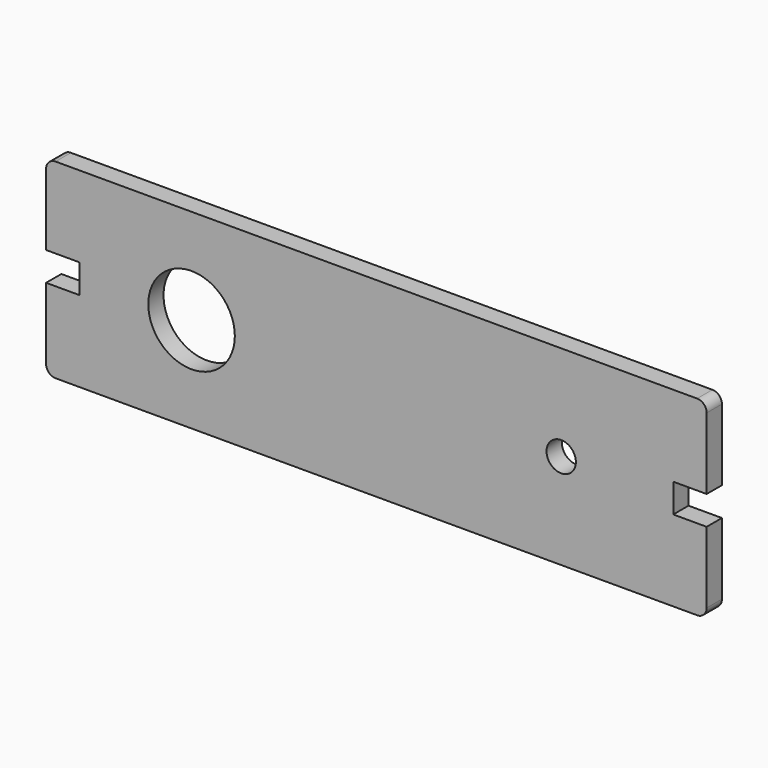
from build123d import *

# Parameters (mm, degrees)
F0_W     = 138.5
F0_H     = 40
F0_R     = 9.075
F0_R_2   = 3.075
F1_DEPTH = 4
F2_R     = 2
F3_W     = 7
F3_H     = 6.05
F4_DEPTH = 25


with BuildPart() as f1:
    # F0 (on Front) → F1 (new body)
    with BuildSketch(Plane.XZ):
        Rectangle(F0_W, F0_H)
        with Locations((-38.75, 0)):
            Circle(F0_R, mode=Mode.SUBTRACT)
        with Locations((38.75, 0)):
            Circle(F0_R_2, mode=Mode.SUBTRACT)
    extrude(amount=F1_DEPTH)

    # F2
    f2_edges = [f1.edges().sort_by_distance(p)[0] for p in [
        (-69.25, -2, -20),
        (-69.25, -2, 20),
        (69.25, -2, -20),
        (69.25, -2, 20),
    ]]
    fillet(f2_edges, radius=F2_R)

    # F3 (on face) → F4 (cut)
    with BuildSketch(Plane.XZ.offset(4)):
        with Locations((-65.75, 0)):
            Rectangle(F3_W, F3_H)
        with Locations((65.75, 0)):
            Rectangle(F3_W, F3_H)
    extrude(amount=-F4_DEPTH, mode=Mode.SUBTRACT)


solid = f1.part
